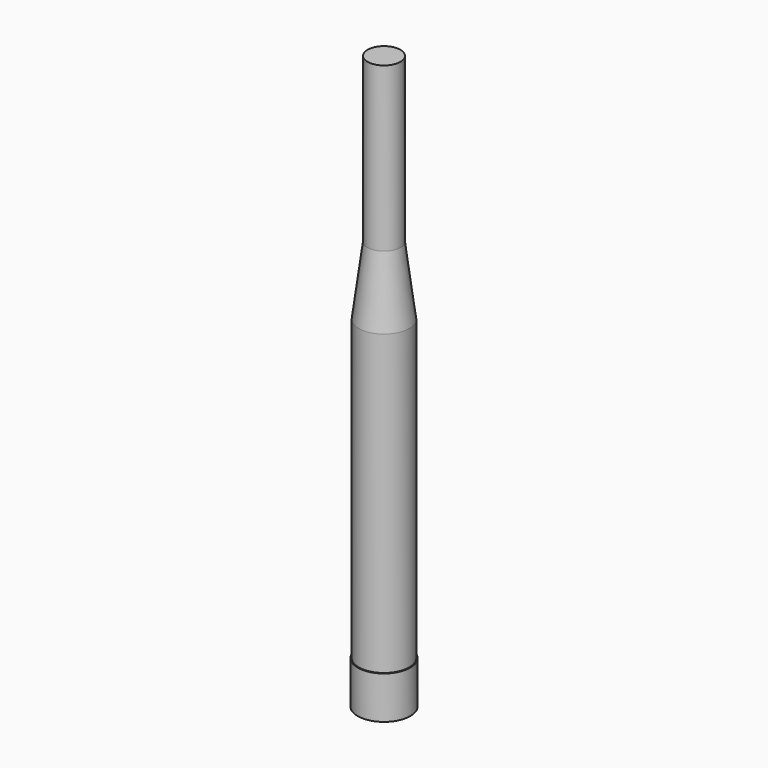
from build123d import *


with BuildPart() as part:
    # Sketch002 → Revolution (revolve)
    with BuildSketch(Plane.YZ):
        Polygon((-5.04, 0), (0, 0), (0, 110), (-3.15, 110), (-3.15, 78.6), (-4.85, 65.47), (-4.85, 8.18), (-5.04, 8.18), align=None)
    revolve(axis=Axis((0, 0, 0), (0, 0, 1)))


solid = part.part
